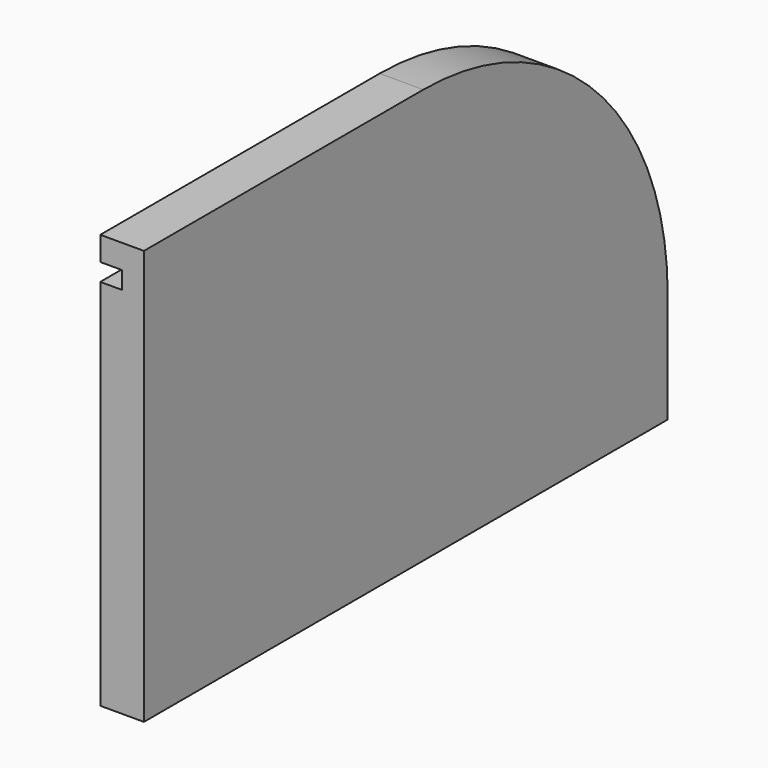
from build123d import *

# Parameters (mm, degrees)
F0_W     = 300
F0_H     = 190
F1_DEPTH = 20
F2_R     = 140
F4_DEPTH = 10


with BuildPart() as f1:
    # F0 (on Right) → F1 (new body)
    with BuildSketch(Plane.YZ):
        Rectangle(F0_W, F0_H)
    extrude(amount=F1_DEPTH)

    # F2
    f2_edges = [f1.edges().sort_by_distance(p)[0] for p in [
        (10, 150, 95),
    ]]
    fillet(f2_edges, radius=F2_R)

    # F3 (on face) → F4 (cut)
    with BuildSketch(Plane(origin=(0, 0, 0), x_dir=(0, -1, 0), z_dir=(-1, 0, 0))):
        with BuildLine():
            Line((-139, -45), (-139, -95))
            Line((-139, -95), (-131, -95))
            Line((-131, -95), (-131, -45))
            ThreePointArc((-131, -45), (-95.559921, 40.559921), (-10, 76))
            Line((-10, 76), (150, 76))
            Line((150, 76), (150, 84))
            Line((150, 84), (-10, 84))
            ThreePointArc((-10, 84), (-101.216775, 46.216775), (-139, -45))
        make_face()
    extrude(amount=-F4_DEPTH, mode=Mode.SUBTRACT)


solid = f1.part
